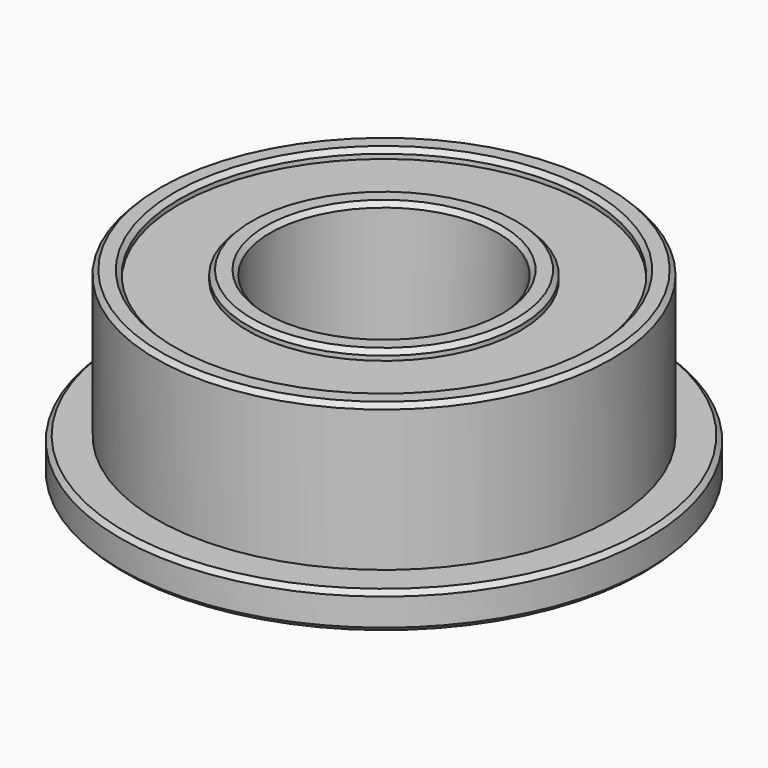
from build123d import *

# Parameters (mm, degrees)
F0_R      = 3
F0_R_2    = 2.5
F1_DEPTH  = 4
F0_R_3    = 5
F0_R_4    = 4.5
F0_R_5    = 5.8
F2_DEPTH  = 0.8
F3_START  = 0.2
F3_DEPTH  = 3.6
F4_SIZE   = 0.1
F4_2_SIZE = 0.1


with BuildPart() as f1:
    # F0 (on Top) → F1 (new body)
    with BuildSketch(Plane.XY):
        Circle(F0_R)
        Circle(F0_R_2, mode=Mode.SUBTRACT)
    extrude(amount=F1_DEPTH)

    # F4#2
    f4_2_edges = [f1.edges().sort_by_distance(p)[0] for p in [
        (-3, 0, 0),
        (-2.5, 0, 0),
        (-3, 0, 4),
        (-2.5, 0, 4),
    ]]
    chamfer(f4_2_edges, length=F4_2_SIZE)


with BuildPart() as f1b:
    # F0 (on Top) → F1, piece 2 (new body)
    with BuildSketch(Plane.XY):
        Circle(F0_R_3)
        Circle(F0_R_4, mode=Mode.SUBTRACT)
    extrude(amount=F1_DEPTH)

    # F0 (on Top) → F2 (join)
    with BuildSketch(Plane.XY):
        Circle(F0_R_5)
        Circle(F0_R_3, mode=Mode.SUBTRACT)
    extrude(amount=F2_DEPTH)

    # F4
    f4_edges = [f1b.edges().sort_by_distance(p)[0] for p in [
        (-5.8, 0, 0),
        (-4.5, 0, 0),
        (-5, 0, 4),
        (-4.5, 0, 4),
        (-5.8, 0, 0.8),
    ]]
    chamfer(f4_edges, length=F4_SIZE)


with BuildPart() as f3:
    # F0 (on Top) → F3 (new body)
    with BuildSketch(Plane.XY.offset(F3_START)):
        Circle(F0_R_4)
        Circle(F0_R, mode=Mode.SUBTRACT)
    extrude(amount=F3_DEPTH)


solid = Compound([f1.part, f1b.part, f3.part])
